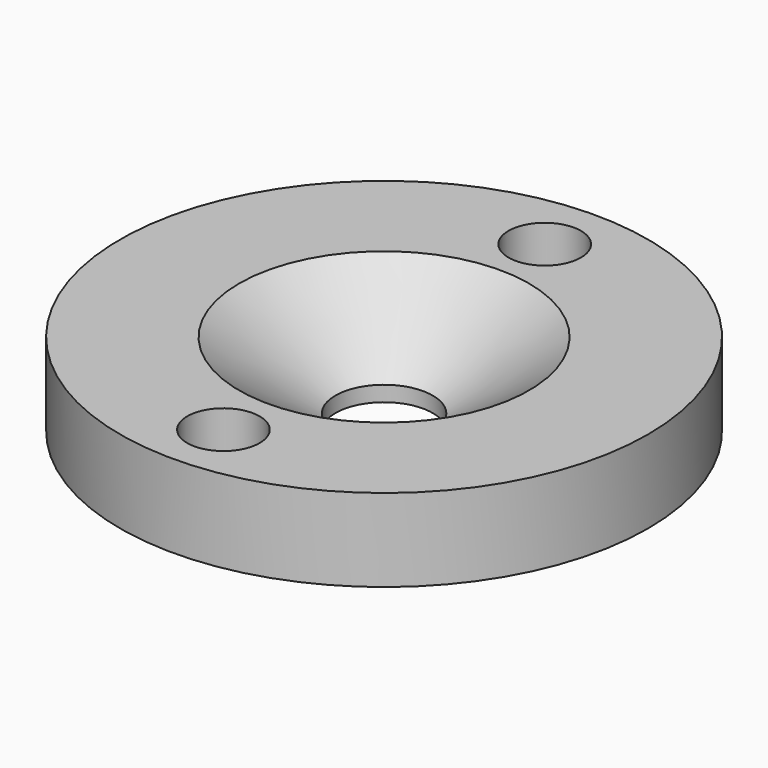
from build123d import *

# Parameters (mm, degrees)
F0_R           = 12.75
F1_DEPTH       = 4
F3_D           = 4.7
F3_CSINK_D     = 14
F3_CSINK_ANGLE = 110
F4_R           = 1.75
F5_DEPTH       = 4.001


with BuildPart() as f1:
    # F0 (on Top) → F1 (new body)
    with BuildSketch(Plane.XY):
        Circle(F0_R)
    extrude(amount=F1_DEPTH)

    # F3 (through all)
    with Locations(Plane.XY.offset(4)):
        with Locations((0, 0)):
            CounterSinkHole(F3_D / 2, F3_CSINK_D / 2, counter_sink_angle=F3_CSINK_ANGLE)

    # F4 (on face) → F5 (cut, through all)
    with BuildSketch(Plane.XY.offset(4)):
        with Locations((0, -9.7)):
            Circle(F4_R)
        with Locations((0, 9.7)):
            Circle(F4_R)
    extrude(amount=-F5_DEPTH, mode=Mode.SUBTRACT)


solid = f1.part
